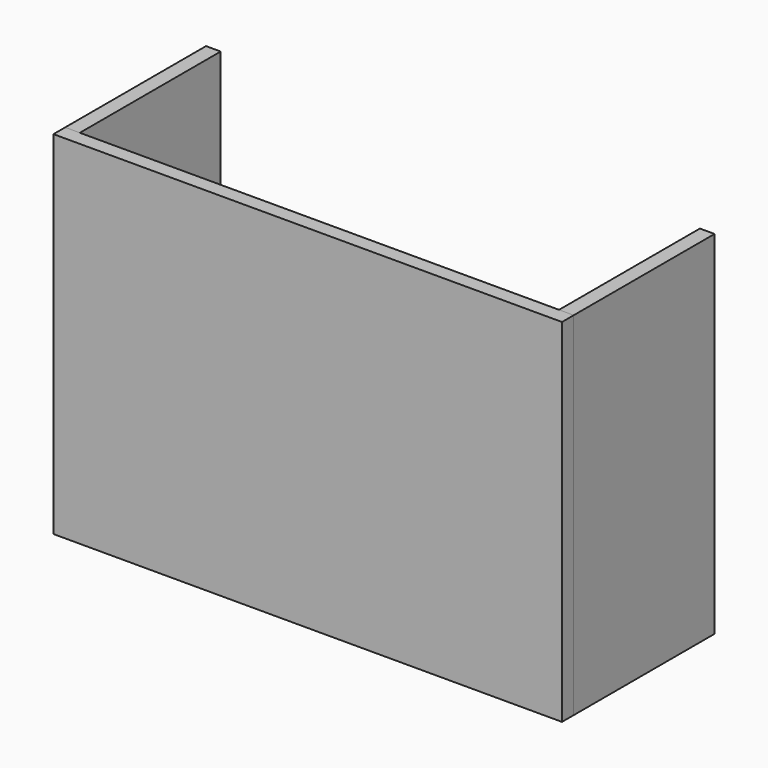
from build123d import *

# Parameters (mm, degrees)
F0_W     = 660.4
F0_H     = 457.2
F1_DEPTH = 19.05
F2_W     = 228.6
F2_H     = 457.2
F3_DEPTH = 19.05
F4_W     = 228.6
F4_H     = 457.2
F5_DEPTH = 19.05
F6_W     = 622.3
F6_H     = 228.6
F7_DEPTH = 19.05


with BuildPart() as f1:
    # F0 (on Front) → F1 (new body)
    with BuildSketch(Plane.XZ):
        with Locations((330.2, 228.6)):
            Rectangle(F0_W, F0_H)
    extrude(amount=F1_DEPTH)


with BuildPart() as f3:
    # F2 (on face) → F3 (new body)
    with BuildSketch(Plane.YZ.offset(660.4)):
        with Locations((114.3, 228.6)):
            Rectangle(F2_W, F2_H)
    extrude(amount=-F3_DEPTH)


with BuildPart() as f5:
    # F4 (on face) → F5 (new body)
    with BuildSketch(Plane(origin=(0, 0, 0), x_dir=(0, -1, 0), z_dir=(-1, 0, 0))):
        with Locations((-114.3, 228.6)):
            Rectangle(F4_W, F4_H)
    extrude(amount=-F5_DEPTH)


with BuildPart() as f7:
    # F6 (on face) → F7 (new body)
    with BuildSketch(Plane(origin=(0, 0, 0), x_dir=(1, 0, 0), z_dir=(0, 0, -1))):
        with Locations((330.2, -114.3)):
            Rectangle(F6_W, F6_H)
    extrude(amount=-F7_DEPTH)


solid = Compound([f1.part, f3.part, f5.part, f7.part])
